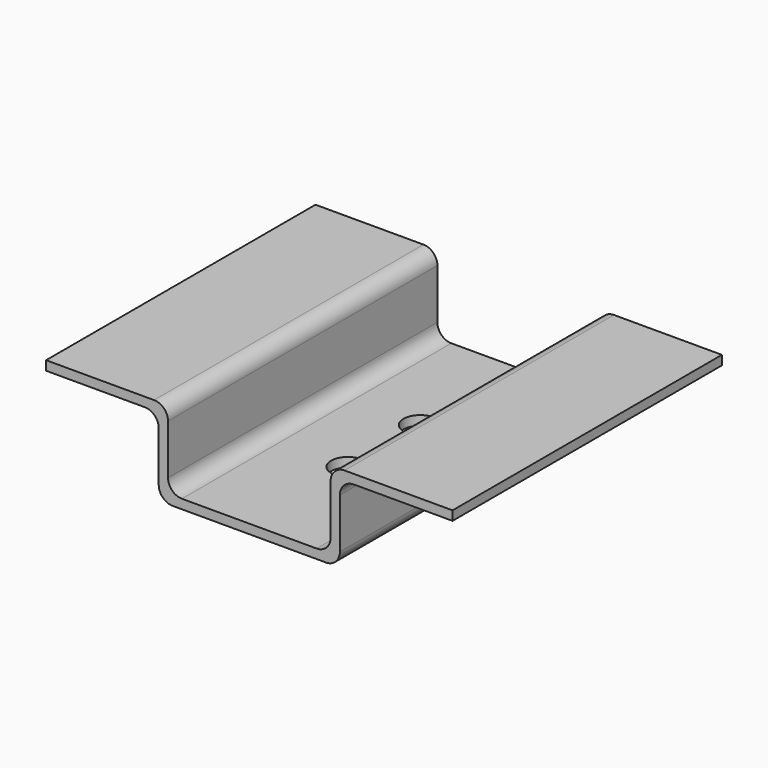
from build123d import *

# Parameters (mm, degrees)
F1_DEPTH = 18.415
F2_R     = 1.8288
F3_DEPTH = 25.4


with BuildPart() as f1:
    # F0 (on Front) → F1 (new body, symmetric)
    with BuildSketch(Plane.XZ):
        with BuildLine():
            Line((-8.382, 0), (0, 0))
            Line((0, 0), (8.382, 0))
            ThreePointArc((8.382, 0), (9.459631, 0.446369), (9.906, 1.524))
            Line((9.906, 1.524), (9.906, 6.985))
            ThreePointArc((9.906, 6.985), (10.352369, 8.062631), (11.43, 8.509))
            Line((11.43, 8.509), (22.225, 8.509))
            Line((22.225, 8.509), (22.225, 9.525))
            Line((22.225, 9.525), (10.414, 9.525))
            ThreePointArc((10.414, 9.525), (9.336369, 9.078631), (8.89, 8.001))
            Line((8.89, 8.001), (8.89, 2.54))
            ThreePointArc((8.89, 2.54), (8.443631, 1.462369), (7.366, 1.016))
            Line((7.366, 1.016), (0, 1.016))
            Line((0, 1.016), (-7.366, 1.016))
            ThreePointArc((-7.366, 1.016), (-8.443631, 1.462369), (-8.89, 2.54))
            Line((-8.89, 2.54), (-8.89, 8.001))
            ThreePointArc((-8.89, 8.001), (-9.336369, 9.078631), (-10.414, 9.525))
            Line((-10.414, 9.525), (-22.225, 9.525))
            Line((-22.225, 9.525), (-22.225, 8.509))
            Line((-22.225, 8.509), (-11.43, 8.509))
            ThreePointArc((-11.43, 8.509), (-10.352369, 8.062631), (-9.906, 6.985))
            Line((-9.906, 6.985), (-9.906, 1.524))
            ThreePointArc((-9.906, 1.524), (-9.459631, 0.446369), (-8.382, 0))
        make_face()
    extrude(amount=F1_DEPTH, both=True)

    # F2 (on face) → F3 (cut)
    with BuildSketch(Plane.XY.offset(1.016)):
        with Locations((0, -4.953)):
            Circle(F2_R)
        with Locations((0, 4.953)):
            Circle(F2_R)
    extrude(amount=-F3_DEPTH, mode=Mode.SUBTRACT)


solid = f1.part
